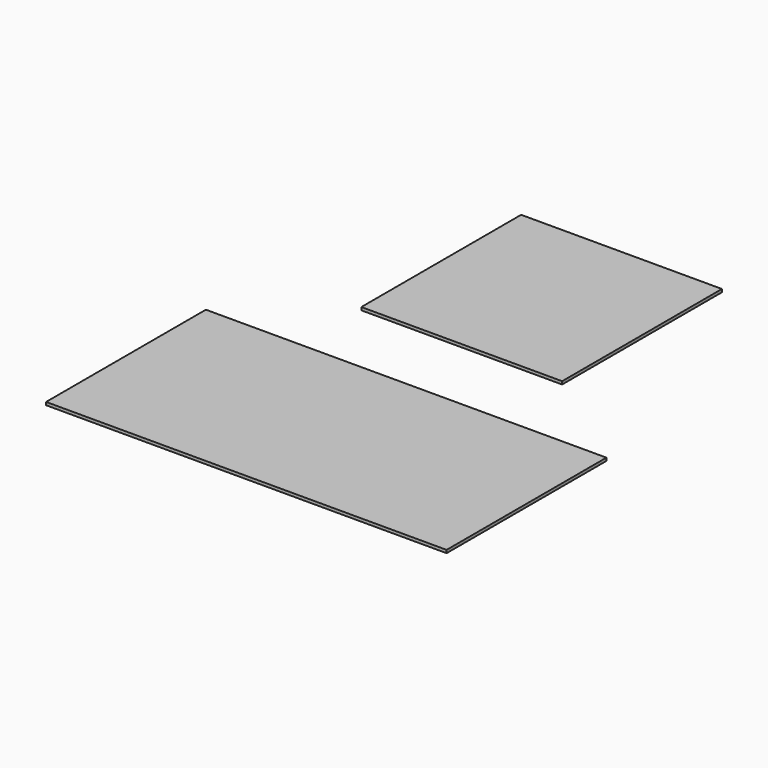
from build123d import *

# Parameters (mm, degrees)
F0_W     = 2432.05
F0_H     = 1212.85
F1_DEPTH = 17.8562
F0_W_2   = 1219.2
F2_DEPTH = 17.8562


with BuildPart() as f1:
    # F0 (on Top) → F1 (new body)
    with BuildSketch(Plane.XY):
        Rectangle(F0_W, F0_H)
    extrude(amount=F1_DEPTH)


with BuildPart() as f2:
    # F0 (on Top) → F2 (new body)
    with BuildSketch(Plane.XY):
        with Locations((-47.855504, 1694.681717)):
            Rectangle(F0_W_2, F0_H)
    extrude(amount=F2_DEPTH)


solid = Compound([f1.part, f2.part])
